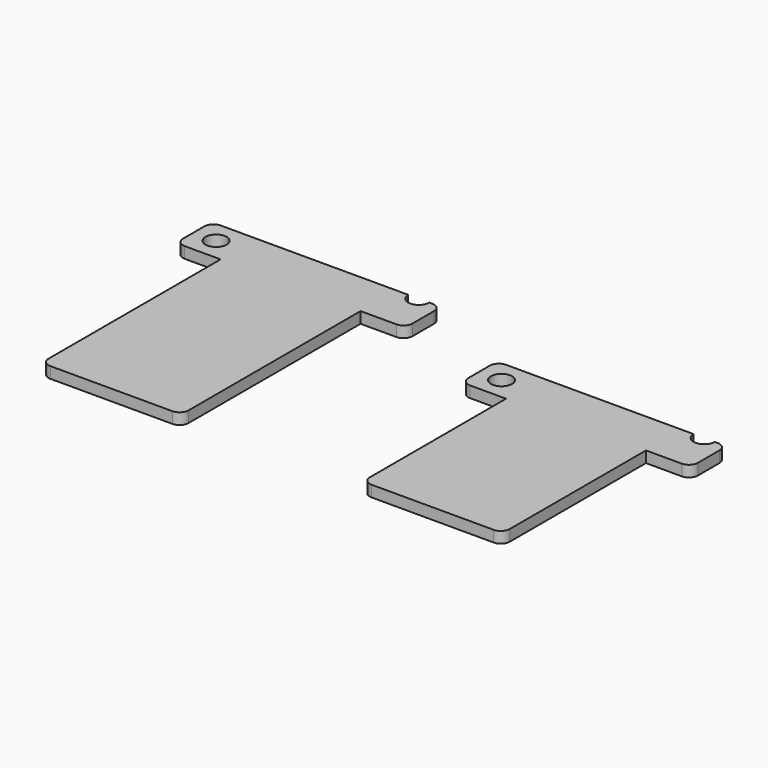
from build123d import *

# Parameters (mm, degrees)
F0_R     = 3
F1_DEPTH = 3.175
F2_R     = 3
F3_DEPTH = 3.175


with BuildPart() as f1:
    # F0 (on Top) → F1 (new body)
    with BuildSketch(Plane.XY):
        with BuildLine():
            ThreePointArc((-19.84375, -29.21), (-19.099801, -31.006051), (-17.30375, -31.75))
            Line((-17.30375, -31.75), (17.30375, -31.75))
            ThreePointArc((17.30375, -31.75), (19.099801, -31.006051), (19.84375, -29.21))
            Line((19.84375, -29.21), (19.84375, 31.75))
            Line((19.84375, 31.75), (30.00375, 31.75))
            ThreePointArc((30.00375, 31.75), (31.799801, 32.493949), (32.54375, 34.29))
            Line((32.54375, 34.29), (32.54375, 41.91))
            ThreePointArc((32.54375, 41.91), (31.799801, 43.706051), (30.00375, 44.45))
            Line((30.00375, 44.45), (29.19375, 44.45))
            ThreePointArc((29.19375, 44.45), (26.19375, 41.45), (23.19375, 44.45))
            Line((23.19375, 44.45), (-30.00375, 44.45))
            ThreePointArc((-30.00375, 44.45), (-31.799801, 43.706051), (-32.54375, 41.91))
            Line((-32.54375, 41.91), (-32.54375, 34.29))
            ThreePointArc((-32.54375, 34.29), (-31.799801, 32.493949), (-30.00375, 31.75))
            Line((-30.00375, 31.75), (-19.84375, 31.75))
            Line((-19.84375, 31.75), (-19.84375, -29.21))
        make_face()
        with Locations((-26.19375, 38.1)):
            Circle(F0_R, mode=Mode.SUBTRACT)
    extrude(amount=F1_DEPTH)


with BuildPart() as f3:
    # F2 (on Top) → F3 (new body)
    with BuildSketch(Plane.XY):
        with BuildLine():
            ThreePointArc((71.230248, -29.197044), (71.974196, -30.993096), (73.770248, -31.737044))
            Line((73.770248, -31.737044), (108.377748, -31.737044))
            ThreePointArc((108.377748, -31.737044), (110.173799, -30.993096), (110.917748, -29.197044))
            Line((110.917748, -29.197044), (110.917748, 19.062956))
            Line((110.917748, 19.062956), (121.077748, 19.062956))
            ThreePointArc((121.077748, 19.062956), (122.873799, 19.806904), (123.617748, 21.602956))
            Line((123.617748, 21.602956), (123.617748, 29.222956))
            ThreePointArc((123.617748, 29.222956), (122.873799, 31.019007), (121.077748, 31.762956))
            Line((121.077748, 31.762956), (120.267748, 31.762956))
            ThreePointArc((120.267748, 31.762956), (117.267748, 28.762956), (114.267748, 31.762956))
            Line((114.267748, 31.762956), (61.070248, 31.762956))
            ThreePointArc((61.070248, 31.762956), (59.274196, 31.019007), (58.530248, 29.222956))
            Line((58.530248, 29.222956), (58.530248, 21.602956))
            ThreePointArc((58.530248, 21.602956), (59.274196, 19.806904), (61.070248, 19.062956))
            Line((61.070248, 19.062956), (71.230248, 19.062956))
            Line((71.230248, 19.062956), (71.230248, -29.197044))
        make_face()
        with Locations((64.880248, 25.412956)):
            Circle(F2_R, mode=Mode.SUBTRACT)
    extrude(amount=F3_DEPTH)


solid = Compound([f1.part, f3.part])
